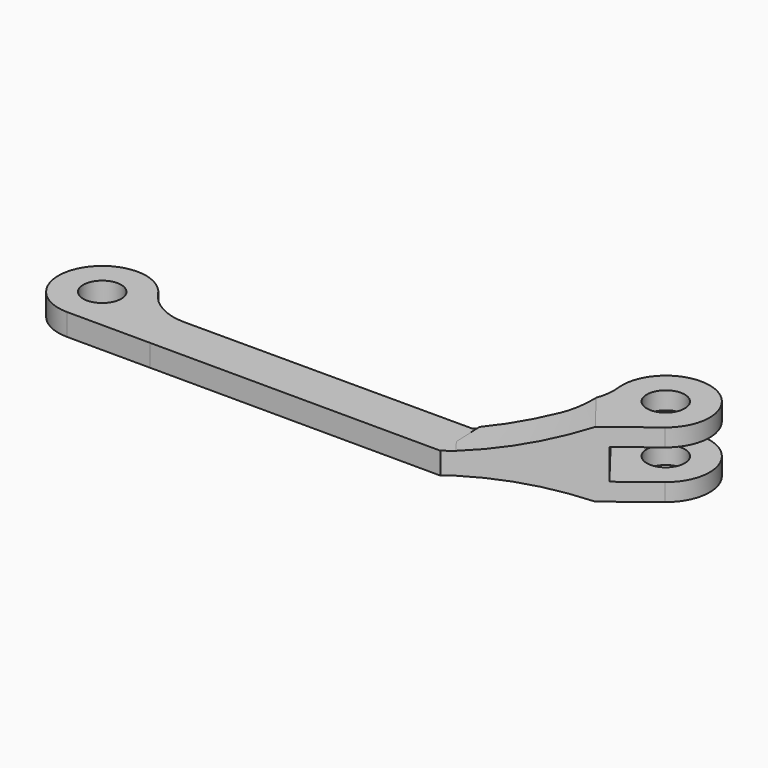
from build123d import *

# Parameters (mm, degrees)
F0_R     = 2.2
F0_R_2   = 2.1971
F1_DEPTH = 7.62
F2_W     = 8.5971400267
F2_H     = 2.54
F2_W_2   = 43.3469019601
F3_DEPTH = 12.7
F5_DEPTH = 25.4


with BuildPart() as f1:
    # F0 (on Top) → F1 (new body)
    with BuildSketch(Plane.XY):
        with BuildLine():
            Line((5.9369556572, -27.8083572605), (39.6794228829, -27.9006065895))
            Line((39.6794228829, -27.9006065895), (55.7396312141, -15.4518271971))
            ThreePointArc((55.7396312141, -15.4518271971), (54.6110684248, -6.7600664581), (47.5776399311, -11.9899079794))
            ThreePointArc((47.5776399311, -11.9899079794), (47.1582083615, -15.0471734784), (45.347095709, -17.5457062744))
            Line((45.347095709, -17.5457062744), (39.2019450665, -22.7020999121))
            Line((39.2019450665, -22.7020999121), (5.8364926789, -22.7020999121))
            ThreePointArc((5.8364926789, -22.7020999121), (2.8430739719, -21.9522735206), (0.5565983665, -19.8798776899))
            ThreePointArc((0.5565983665, -19.8798776899), (-8.1474559702, -20.3073649465), (-3.6673170835, -27.7820999121))
            Line((-3.6673170835, -27.7820999121), (5.9369556572, -27.8083572605))
        make_face()
        with Locations((-3.6673170835, -22.7020999121)):
            Circle(F0_R, mode=Mode.SUBTRACT)
        with Locations((52.627436366, -11.4367751143)):
            Circle(F0_R_2, mode=Mode.SUBTRACT)
    extrude(amount=F1_DEPTH)

    # F2 (on face) → F3 (cut, symmetric)
    with BuildSketch(Plane(origin=(-0.0759809827, -27.7919183508, 0), x_dir=(0.9999962629, -0.0027339134, 0), z_dir=(-0.0027339134, -0.9999962629, 0))):
        with Locations((-7.8899195355, 1.27)):
            Rectangle(F2_W, F2_H)
        with Locations((18.0821014579, 1.27)):
            Rectangle(F2_W_2, F2_H)
        with Locations((-7.8899195355, 6.35)):
            Rectangle(F2_W, F2_H)
        with Locations((18.0821014579, 6.35)):
            Rectangle(F2_W_2, F2_H)
    extrude(amount=F3_DEPTH, both=True, mode=Mode.SUBTRACT)

    # F4 (on face) → F5 (cut)
    with BuildSketch(Plane(origin=(28.4022854633, -36.6418752591, 0), x_dir=(0.7903645832, 0.6126367811, 0), z_dir=(0.6126367811, -0.7903645832, 0))):
        with BuildLine():
            Line((14.2682727173, 5.08), (15.6822027681, 5.08))
            ThreePointArc((15.6822027681, 5.08), (22.0769997922, 5.8758387603), (28.2806027681, 7.62))
            Line((28.2806027681, 7.62), (14.2682727173, 7.62))
            Line((14.2682727173, 7.62), (14.2682727173, 5.08))
        make_face()
        Polygon((34.5882727173, 2.04), (34.5882727173, 5.58), (29.5646376908, 5.58), (29.5646376908, 5.08), (29.5646376908, 4.3004048057), (29.5646376908, 3.3195951943), (29.5646376908, 2.54), (29.5646376908, 2.04), align=None)
        Polygon((41.6956804693, 5.58), (34.5882727173, 5.58), (34.5882727173, 2.04), (41.6956804693, 2.04), (42.2389656305, 2.04), (42.2389656305, 2.54), (42.2389656305, 3.4030259121), (42.2389656305, 4.2169740879), (42.2389656305, 5.08), (42.2389656305, 5.58), align=None)
        with BuildLine():
            Line((15.6822027681, 2.54), (14.2682727173, 2.54))
            Line((14.2682727173, 2.54), (14.2682727173, 0))
            Line((14.2682727173, 0), (28.2806027681, 0))
            ThreePointArc((28.2806027681, 0), (22.0769997922, 1.7441612397), (15.6822027681, 2.54))
        make_face()
    extrude(amount=-F5_DEPTH, mode=Mode.SUBTRACT)


solid = f1.part
